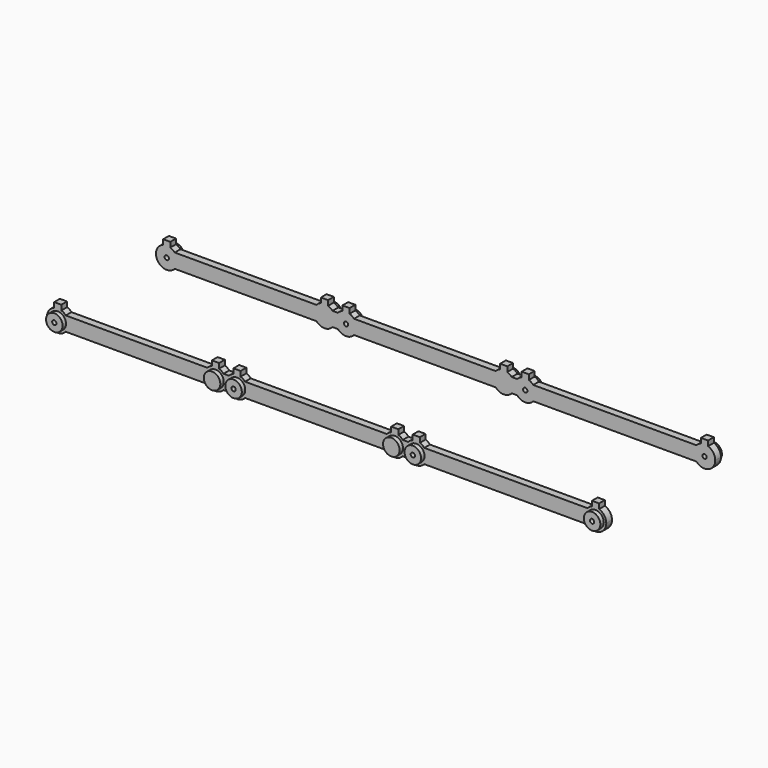
from build123d import *

# Parameters (mm, degrees)
F1_DEPTH  = 1
F2_R      = 1.15
F3_DEPTH  = 0.6
F4_R      = 0.3
F8_DEPTH  = 2
F5_R      = 0.3
F9_DEPTH  = 2
F6_R      = 0.3
F10_DEPTH = 2
F7_R      = 0.3
F11_DEPTH = 2


with BuildPart() as f1:
    # F0 (on Front) → F1 (new body)
    with BuildSketch(Plane.XZ):
        with BuildLine():
            Line((-25.5, 0), (-25, 0))
            Line((-25, 0), (-24.5, 0))
            Line((-24.5, 0), (-24.5, 0.4142135624))
            ThreePointArc((-24.5, 0.4142135624), (-25, 0.5), (-25.5, 0.4142135624))
            Line((-25.5, 0.4142135624), (-25.5, 0))
        make_face()
        with BuildLine():
            Line((-24.5, 0), (-25, 0))
            Line((-25, 0), (-25, -2))
            Line((-25, -2), (-23.8819660113, -2))
            ThreePointArc((-23.8819660113, -2), (-23.5987414616, -1.5352331347), (-23.5, -1))
            ThreePointArc((-23.5, -1), (-23.5987414616, -0.4647668653), (-23.8819660113, 0))
            Line((-23.8819660113, 0), (-24.5, 0))
        make_face()
        with BuildLine():
            Line((-25, -2), (-25, 0))
            Line((-25, 0), (-25.5, 0))
            Line((-25.5, 0), (-25.5, 0.4142135624))
            ThreePointArc((-25.5, 0.4142135624), (-26.2460330188, -1.8351058113), (-23.8819660113, -2))
            Line((-23.8819660113, -2), (-25, -2))
        make_face()
        with BuildLine():
            Line((-24.5, 0.4142135624), (-24.5, 0))
            Line((-24.5, 0), (-23.8819660113, 0))
            ThreePointArc((-23.8819660113, 0), (-24.1648941887, 0.2460330188), (-24.5, 0.4142135624))
        make_face()
        with BuildLine():
            Line((-4.1180339887, 0), (-23.8819660113, 0))
            ThreePointArc((-23.8819660113, 0), (-23.5987414616, -0.4647668653), (-23.5, -1))
            ThreePointArc((-23.5, -1), (-23.5987414616, -1.5352331347), (-23.8819660113, -2))
            Line((-23.8819660113, -2), (-4.1180339887, -2))
            ThreePointArc((-4.1180339887, -2), (-4.5, -1), (-4.1180339887, 0))
        make_face()
        with BuildLine():
            ThreePointArc((-25.5, 0.4142135624), (-25, 0.5), (-24.5, 0.4142135624))
            Line((-24.5, 0.4142135624), (-24.5, 1.1116234818))
            Line((-24.5, 1.1116234818), (-25.5, 1.1116234818))
            Line((-25.5, 1.1116234818), (-25.5, 0.4142135624))
        make_face()
        with BuildLine():
            ThreePointArc((-3.5, 0.4142135624), (-3.8351058113, 0.2460330188), (-4.1180339887, 0))
            Line((-4.1180339887, 0), (-3.5, 0))
            Line((-3.5, 0), (-3.5, 0.4142135624))
        make_face()
        with BuildLine():
            Line((-3.5, 0), (-4.1180339887, 0))
            ThreePointArc((-4.1180339887, 0), (-4.5, -1), (-4.1180339887, -2))
            Line((-4.1180339887, -2), (-1.8819660113, -2))
            ThreePointArc((-1.8819660113, -2), (-1.5987414616, -1.5352331347), (-1.5, -1))
            ThreePointArc((-1.5, -1), (-1.5987414616, -0.4647668653), (-1.8819660113, 0))
            Line((-1.8819660113, 0), (-2.5, 0))
            Line((-2.5, 0), (-3.5, 0))
        make_face()
        with BuildLine():
            Line((-1.8819660113, -2), (-4.1180339887, -2))
            ThreePointArc((-4.1180339887, -2), (-3, -2.5), (-1.8819660113, -2))
        make_face()
        with BuildLine():
            Line((-3.5, 0.4142135624), (-3.5, 0))
            Line((-3.5, 0), (-2.5, 0))
            Line((-2.5, 0), (-2.5, 0.4142135624))
            ThreePointArc((-2.5, 0.4142135624), (-3, 0.5), (-3.5, 0.4142135624))
        make_face()
        with BuildLine():
            Line((-3.5, 1.11162), (-3.5, 0.4142135624))
            ThreePointArc((-3.5, 0.4142135624), (-3, 0.5), (-2.5, 0.4142135624))
            Line((-2.5, 0.4142135624), (-2.5, 1.11162))
            Line((-2.5, 1.11162), (-3.5, 1.11162))
        make_face()
        with BuildLine():
            ThreePointArc((-1.5, -1), (-1.5987414616, -1.5352331347), (-1.8819660113, -2))
            Line((-1.8819660113, -2), (-1.1180339887, -2))
            ThreePointArc((-1.1180339887, -2), (-1.4012585384, -1.5352331347), (-1.5, -1))
        make_face()
        with BuildLine():
            Line((-2.5, 0.4142135624), (-2.5, 0))
            Line((-2.5, 0), (-1.8819660113, 0))
            ThreePointArc((-1.8819660113, 0), (-2.1648941887, 0.2460330188), (-2.5, 0.4142135624))
        make_face()
        with BuildLine():
            ThreePointArc((-1.5, -1), (-1.4012585384, -1.5352331347), (-1.1180339887, -2))
            Line((-1.1180339887, -2), (1.1180339887, -2))
            ThreePointArc((1.1180339887, -2), (1.4012585384, -1.5352331347), (1.5, -1))
            ThreePointArc((1.5, -1), (1.4012585384, -0.4647668653), (1.1180339887, 0))
            Line((1.1180339887, 0), (0.5, 0))
            Line((0.5, 0), (-0.5, 0))
            Line((-0.5, 0), (-1.1180339887, 0))
            ThreePointArc((-1.1180339887, 0), (-1.4012585384, -0.4647668653), (-1.5, -1))
        make_face()
        with BuildLine():
            Line((1.1180339887, -2), (-1.1180339887, -2))
            ThreePointArc((-1.1180339887, -2), (0, -2.5), (1.1180339887, -2))
        make_face()
        with BuildLine():
            ThreePointArc((-1.8819660113, 0), (-1.5987414616, -0.4647668653), (-1.5, -1))
            ThreePointArc((-1.5, -1), (-1.4012585384, -0.4647668653), (-1.1180339887, 0))
            Line((-1.1180339887, 0), (-1.8819660113, 0))
        make_face()
        with BuildLine():
            ThreePointArc((1.5, -1), (1.4012585384, -1.5352331347), (1.1180339887, -2))
            Line((1.1180339887, -2), (20.8819660113, -2))
            ThreePointArc((20.8819660113, -2), (20.5, -1), (20.8819660113, 0))
            Line((20.8819660113, 0), (1.1180339887, 0))
            ThreePointArc((1.1180339887, 0), (1.4012585384, -0.4647668653), (1.5, -1))
        make_face()
        with BuildLine():
            ThreePointArc((-0.5, 0.4142135624), (-0.8351058113, 0.2460330188), (-1.1180339887, 0))
            Line((-1.1180339887, 0), (-0.5, 0))
            Line((-0.5, 0), (-0.5, 0.4142135624))
        make_face()
        with BuildLine():
            ThreePointArc((20.8819660113, 0), (20.5, -1), (20.8819660113, -2))
            Line((20.8819660113, -2), (23.1180339887, -2))
            ThreePointArc((23.1180339887, -2), (23.4012585384, -1.5352331347), (23.5, -1))
            ThreePointArc((23.5, -1), (23.4012585384, -0.4647668653), (23.1180339887, 0))
            Line((23.1180339887, 0), (22.5, 0))
            Line((22.5, 0), (21.5, 0))
            Line((21.5, 0), (20.8819660113, 0))
        make_face()
        with BuildLine():
            Line((23.1180339887, -2), (20.8819660113, -2))
            ThreePointArc((20.8819660113, -2), (22, -2.5), (23.1180339887, -2))
        make_face()
        with BuildLine():
            Line((-0.5, 0.4142135624), (-0.5, 0))
            Line((-0.5, 0), (0.5, 0))
            Line((0.5, 0), (0.5, 0.4142135624))
            ThreePointArc((0.5, 0.4142135624), (0, 0.5), (-0.5, 0.4142135624))
        make_face()
        with BuildLine():
            Line((-0.5, 1.1116234818), (-0.5, 0.4142135624))
            ThreePointArc((-0.5, 0.4142135624), (0, 0.5), (0.5, 0.4142135624))
            Line((0.5, 0.4142135624), (0.5, 1.1116234818))
            Line((0.5, 1.1116234818), (-0.5, 1.1116234818))
        make_face()
        with BuildLine():
            ThreePointArc((23.5, -1), (23.4012585384, -1.5352331347), (23.1180339887, -2))
            Line((23.1180339887, -2), (23.8819660113, -2))
            ThreePointArc((23.8819660113, -2), (23.5987414616, -1.5352331347), (23.5, -1))
        make_face()
        with BuildLine():
            ThreePointArc((21.5, 0.4142135624), (21.1648941887, 0.2460330188), (20.8819660113, 0))
            Line((20.8819660113, 0), (21.5, 0))
            Line((21.5, 0), (21.5, 0.4142135624))
        make_face()
        with BuildLine():
            Line((0.5, 0), (1.1180339887, 0))
            ThreePointArc((1.1180339887, 0), (0.8351058113, 0.2460330188), (0.5, 0.4142135624))
            Line((0.5, 0.4142135624), (0.5, 0))
        make_face()
        with BuildLine():
            ThreePointArc((23.5, -1), (23.5987414616, -1.5352331347), (23.8819660113, -2))
            Line((23.8819660113, -2), (26.1180339887, -2))
            ThreePointArc((26.1180339887, -2), (26.4012585384, -1.5352331347), (26.5, -1))
            ThreePointArc((26.5, -1), (26.4012585384, -0.4647668653), (26.1180339887, 0))
            Line((26.1180339887, 0), (25.5, 0))
            Line((25.5, 0), (24.5, 0))
            Line((24.5, 0), (23.8819660113, 0))
            ThreePointArc((23.8819660113, 0), (23.5987414616, -0.4647668653), (23.5, -1))
        make_face()
        with BuildLine():
            Line((26.1180339887, -2), (23.8819660113, -2))
            ThreePointArc((23.8819660113, -2), (25, -2.5), (26.1180339887, -2))
        make_face()
        with BuildLine():
            ThreePointArc((23.1180339887, 0), (23.4012585384, -0.4647668653), (23.5, -1))
            ThreePointArc((23.5, -1), (23.5987414616, -0.4647668653), (23.8819660113, 0))
            Line((23.8819660113, 0), (23.1180339887, 0))
        make_face()
        with BuildLine():
            Line((21.5, 0.4142135624), (21.5, 0))
            Line((21.5, 0), (22.5, 0))
            Line((22.5, 0), (22.5, 0.4142135624))
            ThreePointArc((22.5, 0.4142135624), (22, 0.5), (21.5, 0.4142135624))
        make_face()
        with BuildLine():
            Line((21.5, 1.11162), (21.5, 0.4142135624))
            ThreePointArc((21.5, 0.4142135624), (22, 0.5), (22.5, 0.4142135624))
            Line((22.5, 0.4142135624), (22.5, 1.11162))
            Line((22.5, 1.11162), (21.5, 1.11162))
        make_face()
        with BuildLine():
            ThreePointArc((26.5, -1), (26.4012585384, -1.5352331347), (26.1180339887, -2))
            Line((26.1180339887, -2), (48.8819660113, -2))
            ThreePointArc((48.8819660113, -2), (48.5, -1), (48.8819660113, 0))
            Line((48.8819660113, 0), (26.1180339887, 0))
            ThreePointArc((26.1180339887, 0), (26.4012585384, -0.4647668653), (26.5, -1))
        make_face()
        with BuildLine():
            ThreePointArc((24.5, 0.4142135624), (24.1648941887, 0.2460330188), (23.8819660113, 0))
            Line((23.8819660113, 0), (24.5, 0))
            Line((24.5, 0), (24.5, 0.4142135624))
        make_face()
        with BuildLine():
            Line((22.5, 0), (23.1180339887, 0))
            ThreePointArc((23.1180339887, 0), (22.8351058113, 0.2460330188), (22.5, 0.4142135624))
            Line((22.5, 0.4142135624), (22.5, 0))
        make_face()
        with BuildLine():
            ThreePointArc((48.8819660113, 0), (48.5, -1), (48.8819660113, -2))
            Line((48.8819660113, -2), (50, -2))
            Line((50, -2), (50, 0))
            Line((50, 0), (49.5, 0))
            Line((49.5, 0), (48.8819660113, 0))
        make_face()
        with BuildLine():
            Line((50, -2), (48.8819660113, -2))
            ThreePointArc((48.8819660113, -2), (50.5352331347, -2.4012585384), (51.5, -1))
            ThreePointArc((51.5, -1), (51.2247448714, -0.1339745962), (50.5, 0.4142135624))
            Line((50.5, 0.4142135624), (50.5, 0))
            Line((50.5, 0), (50, 0))
            Line((50, 0), (50, -2))
        make_face()
        with BuildLine():
            Line((24.5, 0.4142135624), (24.5, 0))
            Line((24.5, 0), (25.5, 0))
            Line((25.5, 0), (25.5, 0.4142135624))
            ThreePointArc((25.5, 0.4142135624), (25, 0.5), (24.5, 0.4142135624))
        make_face()
        with BuildLine():
            Line((24.5, 1.1116234818), (24.5, 0.4142135624))
            ThreePointArc((24.5, 0.4142135624), (25, 0.5), (25.5, 0.4142135624))
            Line((25.5, 0.4142135624), (25.5, 1.1116234818))
            Line((25.5, 1.1116234818), (24.5, 1.1116234818))
        make_face()
        with BuildLine():
            ThreePointArc((49.5, 0.4142135624), (49.1648941887, 0.2460330188), (48.8819660113, 0))
            Line((48.8819660113, 0), (49.5, 0))
            Line((49.5, 0), (49.5, 0.4142135624))
        make_face()
        with BuildLine():
            Line((25.5, 0), (26.1180339887, 0))
            ThreePointArc((26.1180339887, 0), (25.8351058113, 0.2460330188), (25.5, 0.4142135624))
            Line((25.5, 0.4142135624), (25.5, 0))
        make_face()
        with BuildLine():
            Line((49.5, 0), (50, 0))
            Line((50, 0), (50.5, 0))
            Line((50.5, 0), (50.5, 0.4142135624))
            ThreePointArc((50.5, 0.4142135624), (50, 0.5), (49.5, 0.4142135624))
            Line((49.5, 0.4142135624), (49.5, 0))
        make_face()
        with BuildLine():
            Line((49.5, 1.1116234818), (49.5, 0.4142135624))
            ThreePointArc((49.5, 0.4142135624), (50, 0.5), (50.5, 0.4142135624))
            Line((50.5, 0.4142135624), (50.5, 1.1116234818))
            Line((50.5, 1.1116234818), (49.5, 1.1116234818))
        make_face()
    extrude(amount=-F1_DEPTH)

    # F2 (on face) → F3 (join)
    with BuildSketch(Plane.XZ):
        with Locations((-25, -1)):
            Circle(F2_R)
        with Locations((-3, -1)):
            Circle(F2_R)
        with Locations((0, -1)):
            Circle(F2_R)
        with Locations((22, -1)):
            Circle(F2_R)
        with Locations((25, -1)):
            Circle(F2_R)
        with Locations((50, -1)):
            Circle(F2_R)
    extrude(amount=F3_DEPTH)

    # F4 (on face) → F8 (cut)
    with BuildSketch(Plane.XZ.offset(0.6)):
        with Locations((-25, -1)):
            Circle(F4_R)
    extrude(amount=-F8_DEPTH, mode=Mode.SUBTRACT)

    # F5 (on face) → F9 (cut)
    with BuildSketch(Plane.XZ.offset(0.6)):
        with Locations((0, -1)):
            Circle(F5_R)
    extrude(amount=-F9_DEPTH, mode=Mode.SUBTRACT)

    # F6 (on face) → F10 (cut)
    with BuildSketch(Plane.XZ.offset(0.6)):
        with Locations((25, -1)):
            Circle(F6_R)
    extrude(amount=-F10_DEPTH, mode=Mode.SUBTRACT)

    # F7 (on face) → F11 (cut)
    with BuildSketch(Plane.XZ.offset(0.6)):
        with Locations((50, -1)):
            Circle(F7_R)
    extrude(amount=-F11_DEPTH, mode=Mode.SUBTRACT)


with BuildPart() as f13_1:
    # F13: instance of F1
    add(f1.part.mirror(Plane.XZ.offset(-10)))


solid = Compound([f1.part, f13_1.part])
